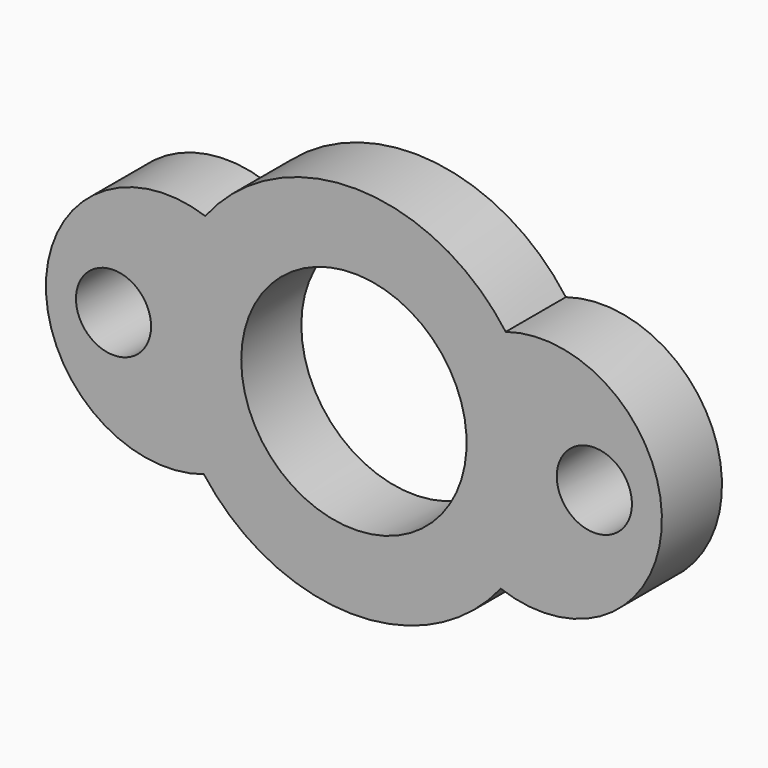
from build123d import *

# Parameters (mm, degrees)
F0_R     = 3.175
F1_DEPTH = 6.35


with BuildPart() as f1:
    # F0 (on Front) → F1 (new body)
    with BuildSketch(Plane.XZ):
        with BuildLine():
            ThreePointArc((-71.269932, -47.25534), (-73.642819, -42.741238), (-74.461959, -37.707679))
            ThreePointArc((-74.461959, -37.707679), (-73.611464, -32.581286), (-71.151106, -28.004182))
            ThreePointArc((-71.151106, -28.004182), (-84.621464, -37.546983), (-71.269932, -47.25534))
        make_face()
        with Locations((-78.906959, -37.707679)):
            Circle(F0_R, mode=Mode.SUBTRACT)
        with BuildLine():
            Line((-42.711959, -37.707679), (-49.061959, -37.707679))
            ThreePointArc((-49.061959, -37.707679), (-58.586959, -47.232679), (-68.111959, -37.707679))
            Line((-68.111959, -37.707679), (-74.461959, -37.707679))
            ThreePointArc((-74.461959, -37.707679), (-73.642819, -42.741238), (-71.269932, -47.25534))
            ThreePointArc((-71.269932, -47.25534), (-58.80936, -53.581121), (-46.176455, -47.606921))
            ThreePointArc((-46.176455, -47.606921), (-43.603095, -42.951669), (-42.711959, -37.707679))
        make_face()
        with BuildLine():
            ThreePointArc((-68.111959, -37.707679), (-58.586959, -28.182679), (-49.061959, -37.707679))
            Line((-49.061959, -37.707679), (-42.711959, -37.707679))
            ThreePointArc((-42.711959, -37.707679), (-43.492112, -32.792275), (-45.75589, -28.359991))
            ThreePointArc((-45.75589, -28.359991), (-58.364559, -21.834237), (-71.151106, -28.004182))
            ThreePointArc((-71.151106, -28.004182), (-73.611464, -32.581286), (-74.461959, -37.707679))
            Line((-74.461959, -37.707679), (-68.111959, -37.707679))
        make_face()
        with BuildLine():
            ThreePointArc((-45.75589, -28.359991), (-43.492112, -32.792275), (-42.711959, -37.707679))
            ThreePointArc((-42.711959, -37.707679), (-43.603095, -42.951669), (-46.176455, -47.606921))
            ThreePointArc((-46.176455, -47.606921), (-32.558173, -38.276434), (-45.75589, -28.359991))
        make_face()
        with BuildLine():
            ThreePointArc((-35.091959, -37.707679), (-38.266959, -40.882679), (-41.441959, -37.707679))
            ThreePointArc((-41.441959, -37.707679), (-38.266959, -34.532679), (-35.091959, -37.707679))
        make_face(mode=Mode.SUBTRACT)
    extrude(amount=F1_DEPTH)


solid = f1.part
